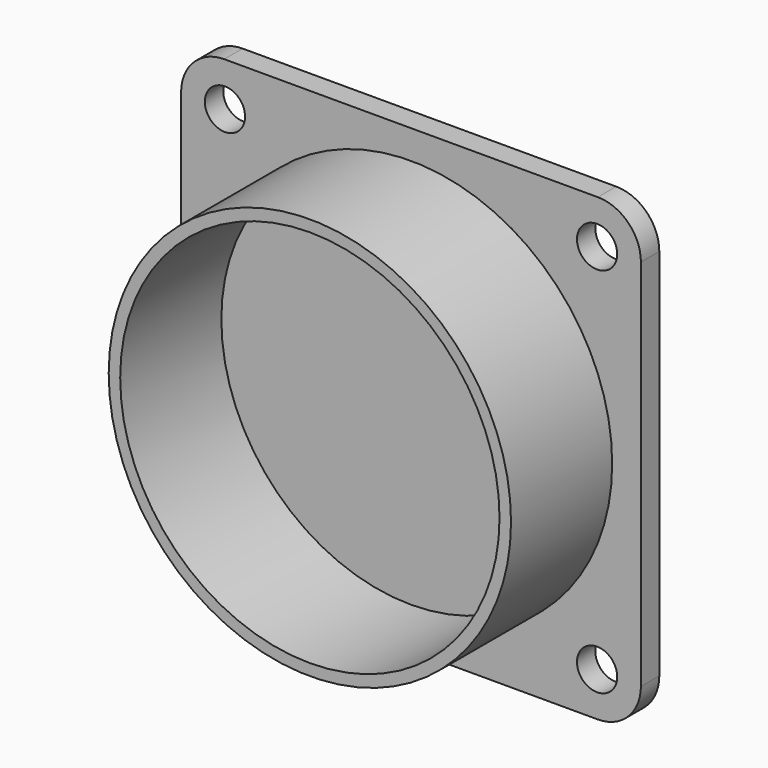
from build123d import *

# Parameters (mm, degrees)
F3_DEPTH = 4
F1_R     = 35
F1_R_2   = 33
F4_DEPTH = 26
F2_R     = 3.5
F5_DEPTH = 26.001
F6_R     = 33
F7_DEPTH = 22
F8_R     = 0.75


with BuildPart() as f3:
    # F0 (on Front) → F3 (new body)
    with BuildSketch(Plane.XZ):
        with BuildLine():
            Line((32.5, 40), (-32.5, 40))
            ThreePointArc((-32.5, 40), (-37.803301, 37.803301), (-40, 32.5))
            Line((-40, 32.5), (-40, -32.5))
            ThreePointArc((-40, -32.5), (-37.803301, -37.803301), (-32.5, -40))
            Line((-32.5, -40), (32.5, -40))
            ThreePointArc((32.5, -40), (37.803301, -37.803301), (40, -32.5))
            Line((40, -32.5), (40, 32.5))
            ThreePointArc((40, 32.5), (37.803301, 37.803301), (32.5, 40))
        make_face()
    extrude(amount=F3_DEPTH)

    # F1 (on face) → F4 (join)
    with BuildSketch(Plane.XZ):
        Circle(F1_R)
        Circle(F1_R_2, mode=Mode.SUBTRACT)
    extrude(amount=F4_DEPTH)

    # F2 (on face) → F5 (cut, through all)
    with BuildSketch(Plane.XZ):
        with Locations((-32.374369, 32.374369)):
            Circle(F2_R)
        with Locations((-32.374369, -32.374369)):
            Circle(F2_R)
        with Locations((32.374369, -32.374369)):
            Circle(F2_R)
        with Locations((32.374369, 32.374369)):
            Circle(F2_R)
    extrude(amount=F5_DEPTH, mode=Mode.SUBTRACT)

    # F6 (on face) → F7 (cut)
    with BuildSketch(Plane.XZ.offset(26)):
        Circle(F6_R)
    extrude(amount=-F7_DEPTH, mode=Mode.SUBTRACT)

    # F9: sweep along a path in F1
    with BuildLine(Plane.XZ) as f9_path:
        CenterArc((0, 0), 33, 0, 360)
    # F8 (on Right) → F9 (sweep, cut)
    with BuildSketch(Plane.YZ):
        with Locations((0, 34)):
            Circle(F8_R)
    sweep(path=f9_path.line, mode=Mode.SUBTRACT)


solid = f3.part
